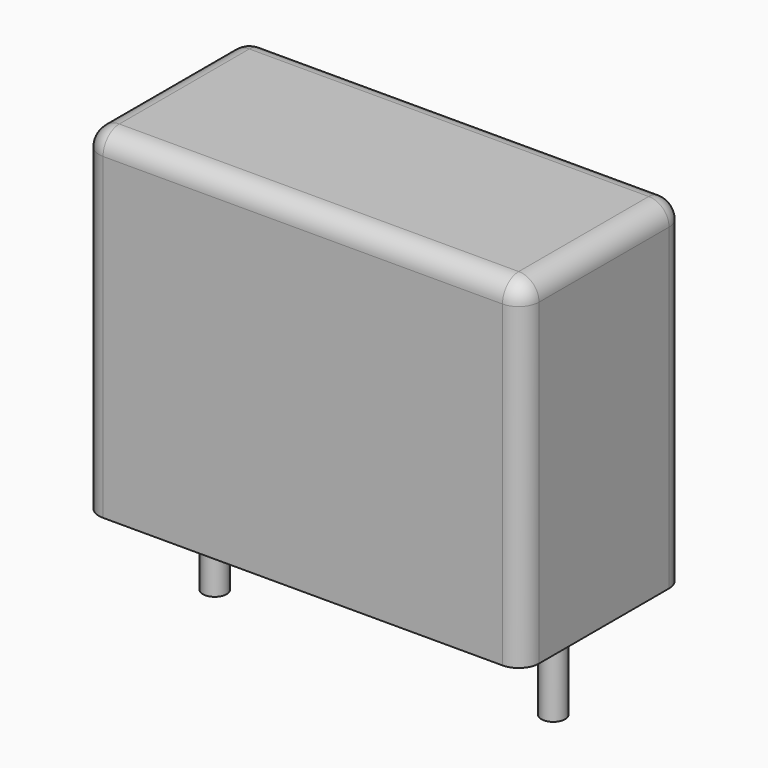
from build123d import *

# Parameters (mm, degrees)
SKETCH_W     = 13
SKETCH_H     = 6
PAD_DEPTH    = 10
FILLET_R     = 0.6
SKETCH001_R  = 0.35
PAD001_DEPTH = 3.2


with BuildPart() as fillet_body:
    # Sketch → Pad (new body)
    with BuildSketch(Plane.XY.offset(0.1)):
        with Locations((5, 0)):
            Rectangle(SKETCH_W, SKETCH_H)
    extrude(amount=PAD_DEPTH)

    # Fillet
    fillet_edges = [fillet_body.edges().sort_by_distance(p)[0] for p in [
        (-1.5, 0, 10.1),
        (-1.5, -3, 5.1),
        (5, -3, 10.1),
        (11.5, -3, 5.1),
        (11.5, 0, 10.1),
        (11.5, 3, 5.1),
        (5, 3, 10.1),
        (-1.5, 3, 5.1),
    ]]
    fillet(fillet_edges, radius=FILLET_R)


with BuildPart() as pad001:
    # Sketch001 → Pad001 (new body)
    with BuildSketch(Plane.XY.offset(0.5)):
        Circle(SKETCH001_R)
        with Locations((10, 0)):
            Circle(SKETCH001_R)
    extrude(amount=-PAD001_DEPTH)


solid = Compound([fillet_body.part, pad001.part])
